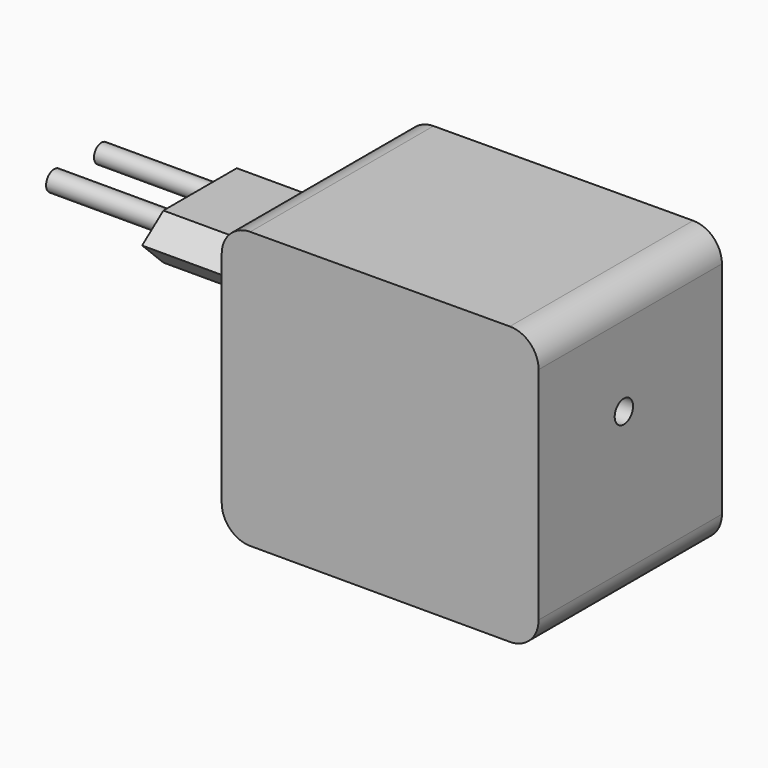
from build123d import *

# Parameters (mm, degrees)
F1_DEPTH = 50.8
F2_R     = 2.073956
F2_R_2   = 2.230105
F3_DEPTH = 25.4
F4_DEPTH = 52.51404
F5_R     = 2.54
F6_DEPTH = 7.10246


with BuildPart() as f1:
    # F0 (on Front) → F1 (new body)
    with BuildSketch(Plane.XZ):
        with BuildLine():
            ThreePointArc((-33.760353, 38.253132), (-38.232387, 36.383421), (-40.08238, 31.903194))
            Line((-40.08238, 31.903194), (-40.08238, -16.708975))
            ThreePointArc((-40.08238, -16.708975), (-38.222508, -21.199103), (-33.73238, -23.058975))
            Line((-33.73238, -23.058975), (23.82785, -23.058975))
            ThreePointArc((23.82785, -23.058975), (28.317978, -21.199103), (30.17785, -16.708975))
            Line((30.17785, -16.708975), (30.17785, 32.156763))
            ThreePointArc((30.17785, 32.156763), (28.308077, 36.65677), (23.799877, 38.506701))
            Line((23.799877, 38.506701), (-33.760353, 38.253132))
        make_face()
    extrude(amount=F1_DEPTH)

    # F2 (on face) → F3 (join)
    with BuildSketch(Plane(origin=(-40.08238, 0, 0), x_dir=(0, -1, 0), z_dir=(-1, 0, 0))):
        Polygon((14.87593, 25.757497), (9.62919, 21.33056), (14.87593, 15.591938), (35.209692, 15.591938), (41.109629, 21.33056), (35.209692, 25.757497), align=None)
        with Locations((18.483063, 21.33056)):
            Circle(F2_R, mode=Mode.SUBTRACT)
        with Locations((31.599913, 21.33056)):
            Circle(F2_R_2, mode=Mode.SUBTRACT)
    extrude(amount=F3_DEPTH)

    # F2 (on face) → F4 (join)
    with BuildSketch(Plane(origin=(-40.08238, 0, 0), x_dir=(0, -1, 0), z_dir=(-1, 0, 0))):
        with Locations((18.483063, 21.33056)):
            Circle(F2_R)
        with Locations((31.599913, 21.33056)):
            Circle(F2_R_2)
    extrude(amount=F4_DEPTH)

    # F5 (on face) → F6 (cut)
    with BuildSketch(Plane.YZ.offset(30.17785)):
        with Locations((-27.174922, 14.381909)):
            Circle(F5_R)
    extrude(amount=-F6_DEPTH, mode=Mode.SUBTRACT)


solid = f1.part
